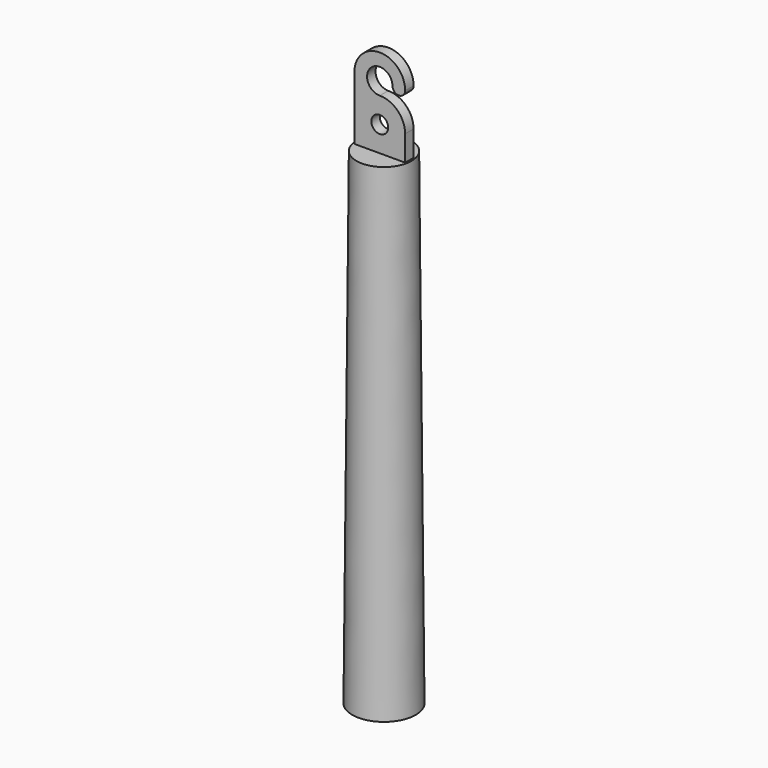
from build123d import *

# Parameters (mm, degrees)
F0_R     = 2
F1_DEPTH = 1.25


with BuildPart() as f1:
    # F0 (on Front) → F1 (new body, symmetric)
    with BuildSketch(Plane.XZ):
        with BuildLine():
            Line((-6, 15), (-6, 0))
            Line((-6, 0), (6, 0))
            Line((6, 0), (6, 6))
            ThreePointArc((6, 6), (4.242641, 10.242641), (0, 12))
            ThreePointArc((0, 12), (-2.12132, 17.12132), (3, 15))
            ThreePointArc((3, 15), (4.5, 13.5), (6, 15))
            ThreePointArc((6, 15), (0, 21), (-6, 15))
        make_face()
        with Locations((0, 6)):
            Circle(F0_R, mode=Mode.SUBTRACT)
    extrude(amount=F1_DEPTH, both=True)

    # F2 (on Right) → F3 (revolve)
    with BuildSketch(Plane.YZ):
        Polygon((0, -115), (0, 0), (-6.5, 0), (-7.5, -115), align=None)
    revolve(axis=Axis((0, 0, -57.5), (0, 0, -1)))


solid = f1.part
